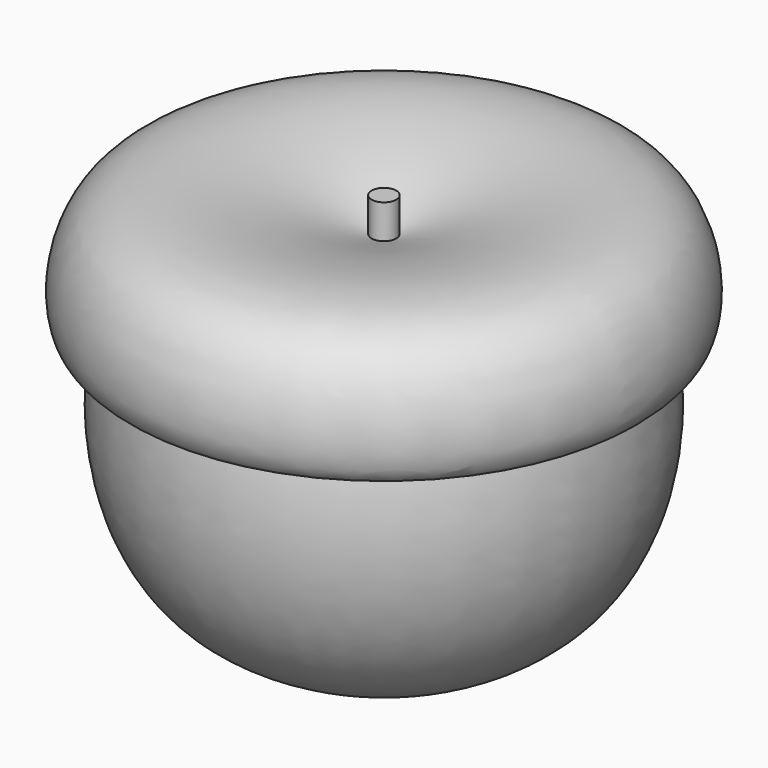
from build123d import *


with BuildPart() as f1:
    # F0 (on Front) → F1 (revolve)
    with BuildSketch(Plane.XZ):
        with BuildLine():
            Line((0, 56.5864257514), (0, 0))
            add(Edge.make_bspline(
                [(40.9296117723, 56.5864257514), (44.1349484026, 41.5460243821), (38.0843465882, 12.1515156518), (4.4653544678, 4.1465055013), (1.7259471351, 5.0545609556), (0, 0)],
                knots=[0, 0, 0, 0, 0.4461532548, 0.8116956883, 1, 1, 1, 1], degree=3))
            Line((40.9296117723, 56.5864257514), (0, 56.5864257514))
        make_face()
    revolve(axis=Axis((0, 0, 28.2932128757), (0, 0, 1)))

    # F2 (on Front) → F3 (revolve)
    with BuildSketch(Plane.XZ):
        with BuildLine():
            Line((0, 56.5864257514), (40.9296117723, 56.5864257514))
            add(Edge.make_bspline(
                [(2.2190746386, 72.1199512482), (7.9166531218, 74.1014357021), (18.752633588, 78.2909151065), (46.2589059195, 81.0027345301), (49.0866994828, 57.5041493157), (43.9353475548, 55.2686259913), (40.9296117723, 56.5864257514)],
                knots=[0, 0, 0, 0, 0.2734500056, 0.5780809462, 0.8414868019, 1, 1, 1, 1], degree=3))
            Line((2.2190746386, 72.1199512482), (2.2190746386, 78.2840549946))
            Line((2.2190746386, 78.2840549946), (0, 78.2840549946))
            Line((0, 78.2840549946), (0, 56.5864257514))
        make_face()
    revolve(axis=Axis((0, 0, 67.435240373), (0, 0, 1)))


solid = f1.part
